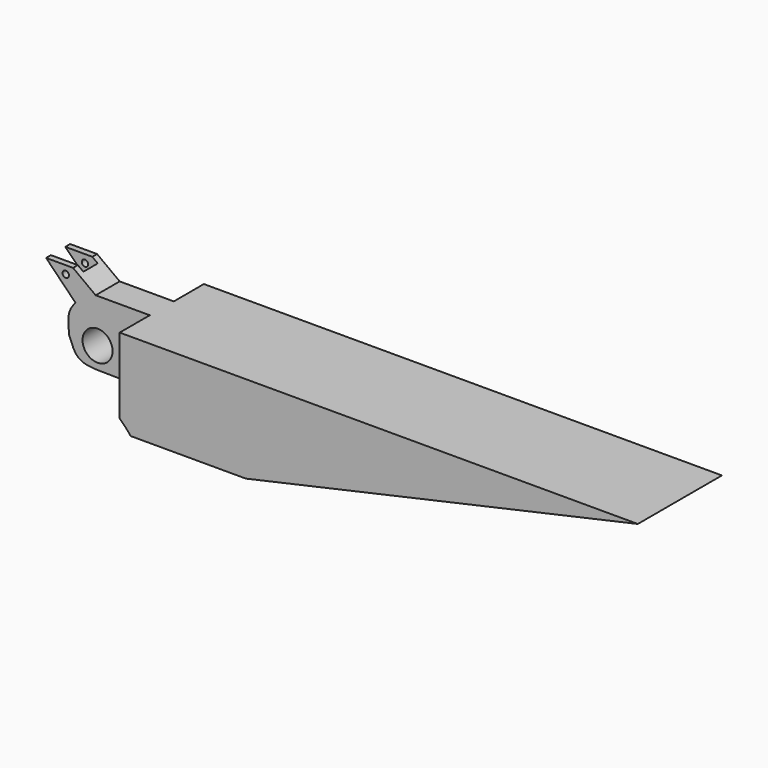
from build123d import *

# Parameters (mm, degrees)
F0_R     = 10
F0_R_2   = 2.125
F1_DEPTH = 70
F2_W     = 23.7841829658
F2_H     = 12
F3_DEPTH = 50


with BuildPart() as f1:
    # F0 (on Front) → F1 (new body)
    with BuildSketch(Plane.XZ):
        with BuildLine():
            Line((60, 29.1429199278), (-60, 29.1429199278))
            Line((-60, 29.1429199278), (-75.0524420565, 40.3041392565))
            Line((-75.0524420565, 40.3041392565), (-93.0163642764, 40.3041392565))
            Line((-93.0163642764, 40.3041392565), (-73.4979985282, 20.4398736871))
            add(Edge.make_bspline(
                [(-77.6378661394, 0), (-78.1194158464, 4.7639785375), (-78.9848755826, 13.3259848022), (-75.1840223047, 18.2538969131), (-73.4979985282, 20.4398736871)],
                knots=[0, 0, 0, 0, 0.5564091394, 1, 1, 1, 1], degree=3))
            add(Edge.make_bspline(
                [(-16.6683998403, -29.1429199278), (-21.7410225995, -22.9682576809), (-32.5546179399, -10.6737549318), (-71.809926995, -17.7841787732), (-75.4187412252, -5.6402197394), (-77.6378661394, 0)],
                knots=[0, 0, 0, 0, 0.3300992596, 0.7296032213, 1, 1, 1, 1], degree=3))
            Line((-16.6683998403, -29.1429199278), (60, -29.1429199278))
            Line((60, -29.1429199278), (60, 29.1429199278))
        make_face()
        with Locations((-58.7333962321, 0)):
            Circle(F0_R, mode=Mode.SUBTRACT)
        with Locations((-79.928971827, 34.9695757031)):
            Circle(F0_R_2, mode=Mode.SUBTRACT)
        Polygon((321, 29.1429199278), (60, 29.1429199278), (60, -29.1429199278), align=None)
    extrude(amount=F1_DEPTH)

    # F2 (on Top) → F3 (cut, symmetric)
    with BuildSketch(Plane.XY):
        Polygon((-120.2781274915, 0), (-120.2781274915, -25), (-23.9695869386, -25), (-23.9695869386, 0), (-60, 0), align=None)
        Polygon((-23.9695869386, -45), (-122.6608380675, -45), (-122.6608380675, -72.7143883705), (-24.00202282, -72.7143883705), align=None)
        with Locations((-83.2946263254, -35)):
            Rectangle(F2_W, F2_H)
    extrude(amount=F3_DEPTH, both=True, mode=Mode.SUBTRACT)


solid = f1.part
